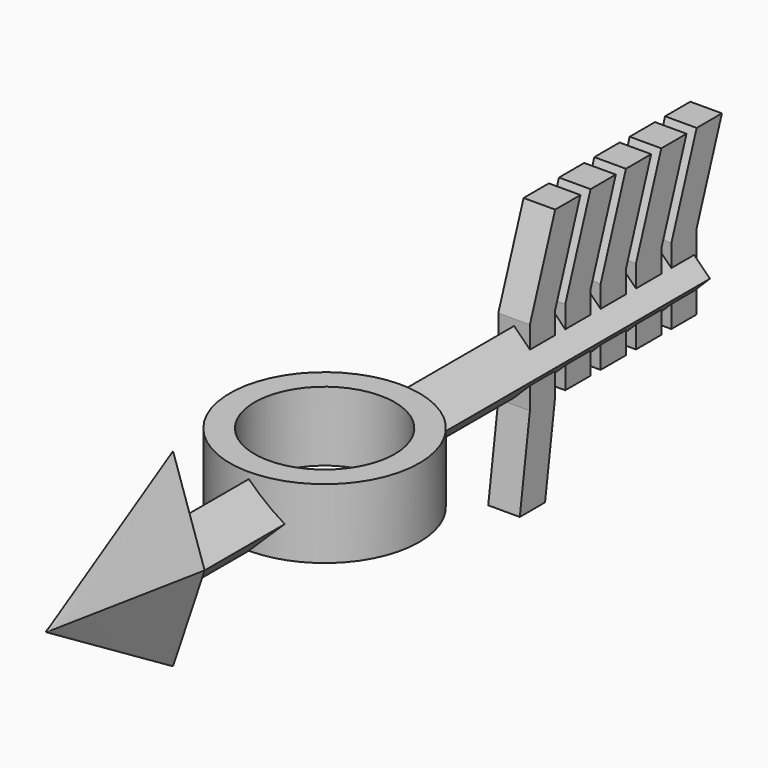
from build123d import *

# Parameters (mm, degrees)
F2_R       = 0.1
F5_DEPTH   = 100
F7_R       = 15
F7_R_2     = 11
F8_DEPTH   = 11
F9_R       = 11.1
F10_DEPTH  = 21.001
F11_W      = 5
F11_H      = 5
F14_DEPTH  = 5
F14_FACE_W = 5
F14_FACE_H = 5
F13_W      = 5
F13_H      = 5
F21_W      = 5
F21_H      = 5
F22_DEPTH  = 5
F22_FACE_W = 5
F22_FACE_H = 5
F24_W      = 5
F24_H      = 5


with BuildPart() as f3:
    # F0 (on Front) → F3 section 0
    with BuildSketch(Plane.XZ):
        Polygon((5, 0), (0, 15), (-5, 0), (0, -15), align=None)
    # F2 (on offset) → F3 section 1
    with BuildSketch(Plane.XZ.offset(25)):
        Circle(F2_R)
    loft()

    # F4 (on Front) → F5 (join)
    with BuildSketch(Plane.XZ):
        Polygon((2e-06, 5.000002), (-5, 0), (2e-06, -5.000002), (5.000005, 0), align=None)
        Polygon((2e-06, 5.000002), (-5, 0), (2e-06, -5.000002), (5.000005, 0), align=None)
    extrude(amount=-F5_DEPTH)

    # F7 (on offset) → F8 (join)
    with BuildSketch(Plane.XY.offset(6)):
        with Locations((0, 30)):
            Circle(F7_R)
        with Locations((0, 30)):
            Circle(F7_R_2, mode=Mode.SUBTRACT)
    extrude(amount=-F8_DEPTH)

    # F9 (on offset) → F10 (cut, through all)
    with BuildSketch(Plane.XY.offset(6)):
        with Locations((0, 30)):
            Circle(F9_R)
    extrude(amount=-F10_DEPTH, mode=Mode.SUBTRACT)

    # F11 (on offset) → F14 (join)
    with BuildSketch(Plane.XY.offset(6)):
        with Locations((0, 70)):
            Rectangle(F11_W, F11_H)
        with Locations((0, 77)):
            Rectangle(F11_W, F11_H)
        with Locations((0, 84)):
            Rectangle(F11_W, F11_H)
        with Locations((0, 91)):
            Rectangle(F11_W, F11_H)
        with Locations((0, 98)):
            Rectangle(F11_W, F11_H)
    extrude(amount=-F14_DEPTH)

    # F14_face (on face) → F15 section 0
    with BuildSketch(Plane(origin=(0, 70, 6), x_dir=(1, 0, 0), z_dir=(0, 0, 1))):
        Rectangle(F14_FACE_W, F14_FACE_H)
    # F13 (on offset) → F15 section 1
    with BuildSketch(Plane.XY.offset(20)):
        with Locations((0, 75)):
            Rectangle(F13_W, F13_H)
    loft()

    # F14_face (on face) → F16 section 0
    with BuildSketch(Plane(origin=(0, 70, 6), x_dir=(1, 0, 0), z_dir=(0, 0, 1))):
        with Locations((0, 7)):
            Rectangle(F14_FACE_W, F14_FACE_H)
    # F13 (on offset) → F16 section 1
    with BuildSketch(Plane.XY.offset(20)):
        with Locations((0, 82)):
            Rectangle(F13_W, F13_H)
    loft()

    # F14_face (on face) → F17 section 0
    with BuildSketch(Plane(origin=(0, 70, 6), x_dir=(1, 0, 0), z_dir=(0, 0, 1))):
        with Locations((0, 14)):
            Rectangle(F14_FACE_W, F14_FACE_H)
    # F13 (on offset) → F17 section 1
    with BuildSketch(Plane.XY.offset(20)):
        with Locations((0, 89)):
            Rectangle(F13_W, F13_H)
    loft()

    # F14_face (on face) → F18 section 0
    with BuildSketch(Plane(origin=(0, 70, 6), x_dir=(1, 0, 0), z_dir=(0, 0, 1))):
        with Locations((0, 21)):
            Rectangle(F14_FACE_W, F14_FACE_H)
    # F13 (on offset) → F18 section 1
    with BuildSketch(Plane.XY.offset(20)):
        with Locations((0, 96)):
            Rectangle(F13_W, F13_H)
    loft()

    # F14_face (on face) → F19 section 0
    with BuildSketch(Plane(origin=(0, 70, 6), x_dir=(1, 0, 0), z_dir=(0, 0, 1))):
        with Locations((0, 28)):
            Rectangle(F14_FACE_W, F14_FACE_H)
    # F13 (on offset) → F19 section 1
    with BuildSketch(Plane.XY.offset(20)):
        with Locations((0, 103)):
            Rectangle(F13_W, F13_H)
    loft()

    # F21 (on offset) → F22 (join)
    with BuildSketch(Plane.XY.offset(-6)):
        with Locations((0, 70)):
            Rectangle(F21_W, F21_H)
        with Locations((0, 77)):
            Rectangle(F21_W, F21_H)
        with Locations((0, 84)):
            Rectangle(F21_W, F21_H)
        with Locations((0, 91)):
            Rectangle(F21_W, F21_H)
        with Locations((0, 98)):
            Rectangle(F21_W, F21_H)
    extrude(amount=F22_DEPTH)

    # F22_face (on face) → F25 section 0
    with BuildSketch(Plane(origin=(0, 70, -6), x_dir=(1, 0, 0), z_dir=(0, 0, -1))):
        Rectangle(F22_FACE_W, F22_FACE_H)
    # F24 (on offset) → F25 section 1
    with BuildSketch(Plane.XY.offset(-20)):
        with Locations((0, 68)):
            Rectangle(F24_W, F24_H)
    loft()


solid = f3.part
